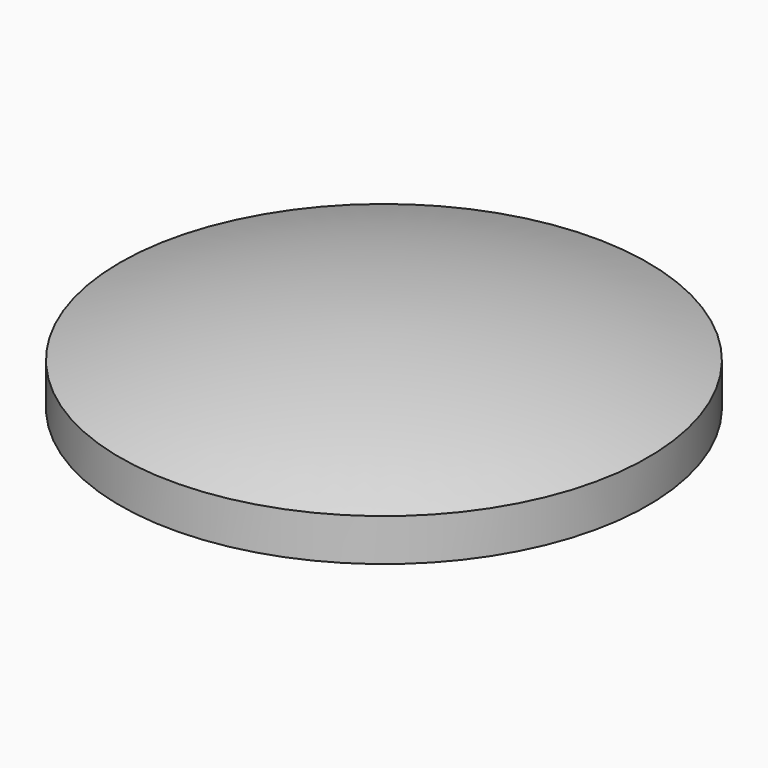
from build123d import *

# Parameters (mm, degrees)
F3_DEPTH = 0.127


with BuildPart() as f1:
    # F0 (on Front) → F1 (revolve)
    with BuildSketch(Plane.XZ):
        with BuildLine():
            Line((-12.7, 1.016), (-12.7, -1.016))
            Line((-12.7, -1.016), (0, -1.016))
            Line((0, -1.016), (0, 3.1635780177))
            ThreePointArc((0, 3.1635780177), (-6.4401492867, 2.6228992997), (-12.7, 1.016))
        make_face()
    revolve(axis=Axis((0, 0, 1.0737890089), (0, 0, -1)))

    # F2 (on face) → F3 (cut, symmetric)
    with BuildSketch(Plane(origin=(0, 0, -1.016), x_dir=(1, 0, 0), z_dir=(0, 0, -1))):
        Polygon((-0.1931561856, -11.8119744584), (0.1931561856, -11.8119744584), (0.1931561856, -0.2008439769), (12.4672725797, -0.2008439769), (12.4672725797, 0.2008439769), (0.1931561856, 0.2008439769), (0.1931561856, 11.8119744584), (-0.1931561856, 11.8119744584), (-0.1931561856, 0.2008439769), (-12.4672725797, 0.2008439769), (-12.4672725797, -0.2008439769), (-0.1931561856, -0.2008439769), align=None)
    extrude(amount=F3_DEPTH, both=True, mode=Mode.SUBTRACT)


solid = f1.part
